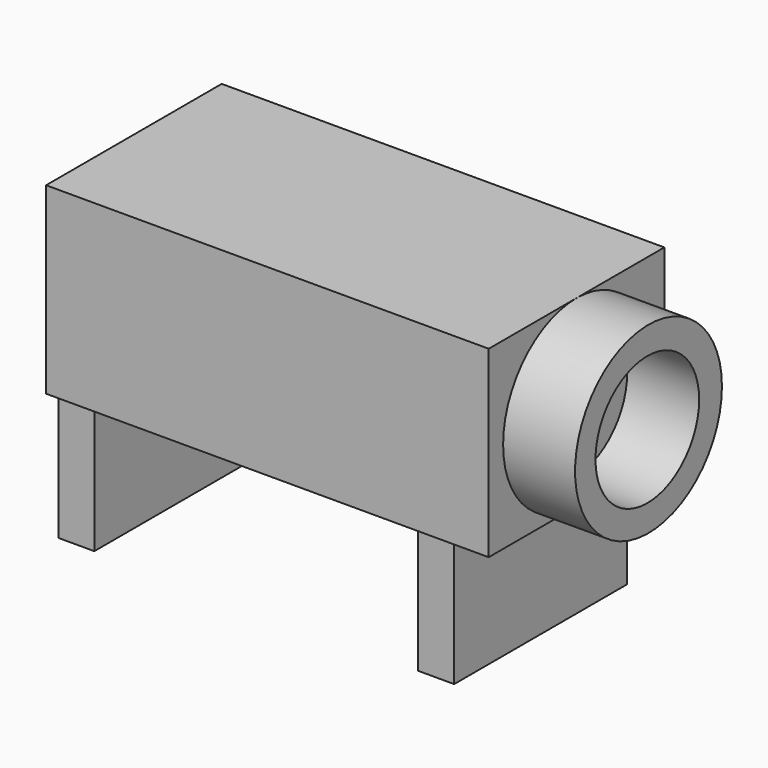
from build123d import *

# Parameters (mm, degrees)
SKETCH005_W             = 6.1
SKETCH005_H             = 5.1
PAD005_DEPTH            = 12.3
SKETCH006_R             = 2.55
SKETCH006_R_2           = 1.8
PAD006_DEPTH            = 2
SKETCH007_W             = 1
SKETCH007_H             = 6
PAD007_DEPTH            = 3
BODY002_PLACEMENT_ANGLE = 90


with BuildPart() as part:
    # Sketch005 → Pad005 (new body)
    with BuildSketch(Plane.XZ):
        Rectangle(SKETCH005_W, SKETCH005_H)
    extrude(amount=-PAD005_DEPTH)

    # Sketch006 → Pad006 (join)
    with BuildSketch(Plane.XZ):
        Circle(SKETCH006_R)
        with Locations((-0.041022, 0)):
            Circle(SKETCH006_R_2, mode=Mode.SUBTRACT)
    extrude(amount=PAD006_DEPTH)

    # Sketch007 → Pad007 (join, symmetric)
    with BuildSketch(Plane.YZ):
        with Locations((1.5, -3)):
            Rectangle(SKETCH007_W, SKETCH007_H)
        with Locations((11.5, -3)):
            Rectangle(SKETCH007_W, SKETCH007_H)
    extrude(amount=PAD007_DEPTH, both=True)


with BuildPart() as part_1:
    # Body002 placement: moved
    add(part.part.moved(Location((7, 5, 4.5))).rotate(Axis((7, 5, 4.5), (0, 0, 1)), BODY002_PLACEMENT_ANGLE))


solid = part_1.part
